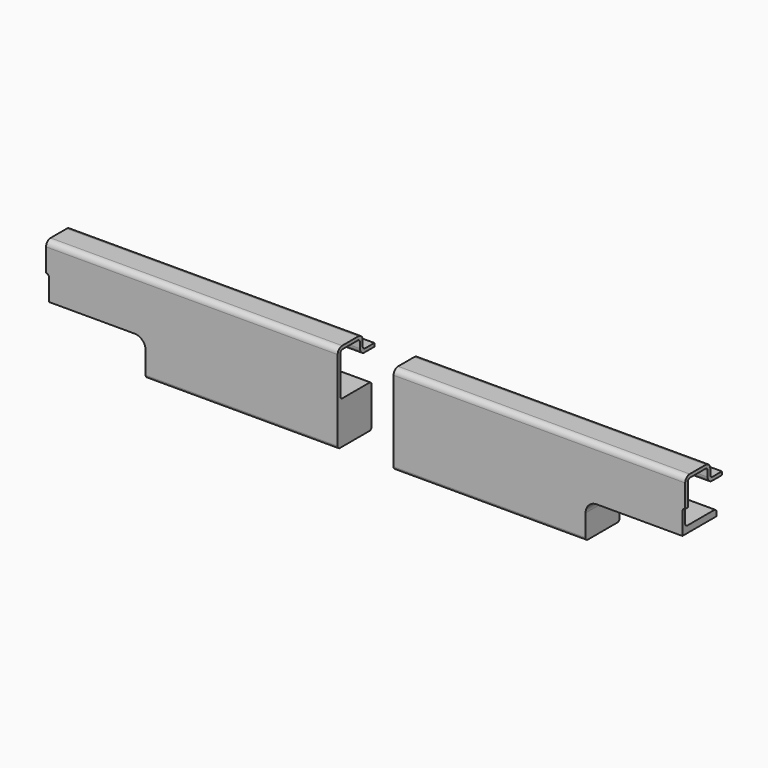
from build123d import *

# Parameters (mm, degrees)
F1_DEPTH = 521
F2_W     = 178
F2_H     = 13.925067
F3_DEPTH = 76


with BuildPart() as f1:
    # F0 (on Right) → F1 (new body)
    with BuildSketch(Plane.YZ):
        with BuildLine():
            Line((35.662354, 126.217782), (35.662354, 132.217782))
            Line((35.662354, 132.217782), (14.662354, 132.217782))
            ThreePointArc((14.662354, 132.217782), (11.126821, 133.682248), (9.662354, 137.217782))
            Line((9.662354, 137.217782), (9.662354, 147.217782))
            ThreePointArc((9.662354, 147.217782), (6.733422, 154.28885), (-0.337646, 157.217782))
            Line((-0.337646, 157.217782), (-36.337646, 157.217782))
            ThreePointArc((-36.337646, 157.217782), (-43.408713, 154.28885), (-46.337646, 147.217782))
            Line((-46.337646, 147.217782), (-46.337646, 3.217782))
            ThreePointArc((-46.337646, 3.217782), (-44.873179, -0.317752), (-41.337646, -1.782218))
            Line((-41.337646, -1.782218), (24.662354, -1.782218))
            ThreePointArc((24.662354, -1.782218), (28.197888, -0.317752), (29.662354, 3.217782))
            Line((29.662354, 3.217782), (29.662354, 69.217782))
            ThreePointArc((29.662354, 69.217782), (28.197888, 72.753316), (24.662354, 74.217782))
            Line((24.662354, 74.217782), (-35.337646, 74.217782))
            ThreePointArc((-35.337646, 74.217782), (-38.873179, 75.682248), (-40.337646, 79.217782))
            Line((-40.337646, 79.217782), (-40.337646, 146.217782))
            ThreePointArc((-40.337646, 146.217782), (-38.873179, 149.753316), (-35.337646, 151.217782))
            Line((-35.337646, 151.217782), (-1.337646, 151.217782))
            ThreePointArc((-1.337646, 151.217782), (2.197888, 149.753316), (3.662354, 146.217782))
            Line((3.662354, 146.217782), (3.662354, 136.217782))
            ThreePointArc((3.662354, 136.217782), (6.591287, 129.146714), (13.662354, 126.217782))
            Line((13.662354, 126.217782), (35.662354, 126.217782))
        make_face()
    extrude(amount=F1_DEPTH)

    # F2 (on face) → F3 (cut)
    with BuildSketch(Plane.XZ.offset(46.337646)):
        with BuildLine():
            ThreePointArc((521, 106.217782), (517.464466, 104.753316), (516, 101.217782))
            Line((516, 101.217782), (516, 62.217782))
            Line((516, 62.217782), (363, 62.217782))
            ThreePointArc((363, 62.217782), (348.857864, 56.359917), (343, 42.217782))
            Line((343, 42.217782), (343, 3.217782))
            Line((343, 3.217782), (521, 3.217782))
            Line((521, 3.217782), (521, 106.217782))
        make_face()
        with Locations((432, -3.744751)):
            Rectangle(F2_W, F2_H)
    extrude(amount=-F3_DEPTH, mode=Mode.SUBTRACT)


with BuildPart() as f5_1:
    # F5: instance of F1
    add(f1.part.mirror(Plane.YZ.offset(-50)))


solid = Compound([f1.part, f5_1.part])
